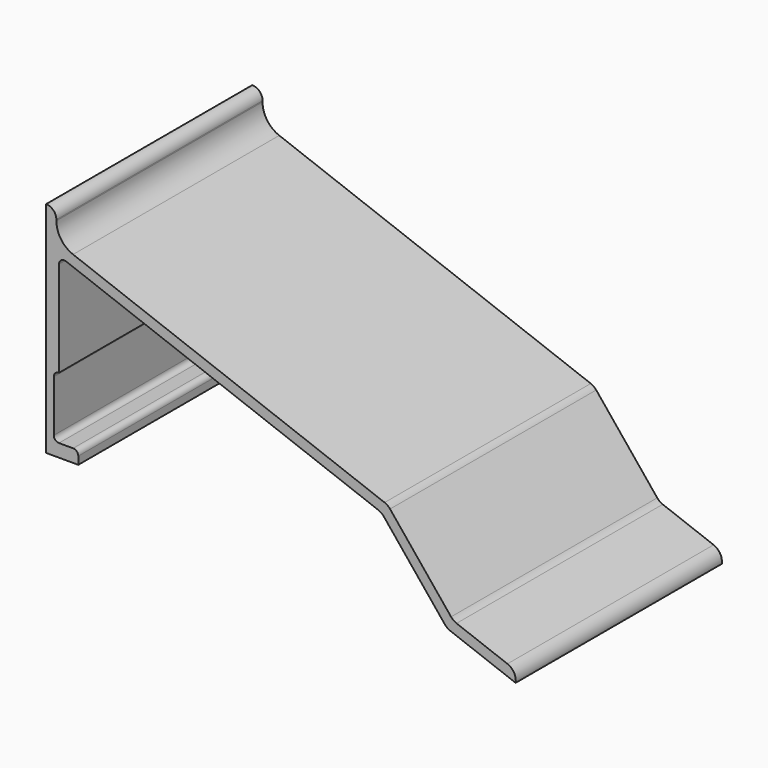
from build123d import *

# Parameters (mm, degrees)
F1_DEPTH = 100


with BuildPart() as f1:
    # F0 (on Front) → F1 (new body)
    with BuildSketch(Plane.XZ):
        with BuildLine():
            Line((0, 85), (0, 0))
            Line((0, 0), (12.5, 0))
            Line((12.5, 0), (12.5, 3))
            ThreePointArc((12.5, 3), (11.914214, 4.414214), (10.5, 5))
            Line((10.5, 5), (5, 5))
            ThreePointArc((5, 5), (3.585786, 5.585786), (3, 7))
            Line((3, 7), (3, 27))
            ThreePointArc((3, 27), (3.585786, 28.414214), (5, 29))
            Line((5, 29), (5, 66.111684))
            ThreePointArc((5, 66.111684), (5.861427, 67.755963), (7.703652, 67.983815))
            Line((7.703652, 67.983815), (128.938041, 22.417103))
            ThreePointArc((128.938041, 22.417103), (130.100091, 21.794695), (131.05909, 20.89022))
            Line((131.05909, 20.89022), (154.73982, -8.247924))
            ThreePointArc((154.73982, -8.247924), (155.698819, -9.152399), (156.86087, -9.774807))
            Line((156.86087, -9.774807), (182.2, -19.29868))
            ThreePointArc((182.2, -19.29868), (181.585124, -15.998362), (179.021539, -13.830829))
            Line((179.021539, -13.830829), (159.281959, -6.411583))
            ThreePointArc((159.281959, -6.411583), (158.119909, -5.789175), (157.16091, -4.8847))
            Line((157.16091, -4.8847), (133.48018, 24.253443))
            ThreePointArc((133.48018, 24.253443), (132.521181, 25.157918), (131.35913, 25.780327))
            Line((131.35913, 25.780327), (10.481739, 71.212859))
            ThreePointArc((10.481739, 71.212859), (5.778607, 74.88065), (4, 80.573513))
            Line((4, 80.573513), (4, 81))
            ThreePointArc((4, 81), (2.828427, 83.828427), (0, 85))
        make_face()
    extrude(amount=F1_DEPTH)


solid = f1.part
